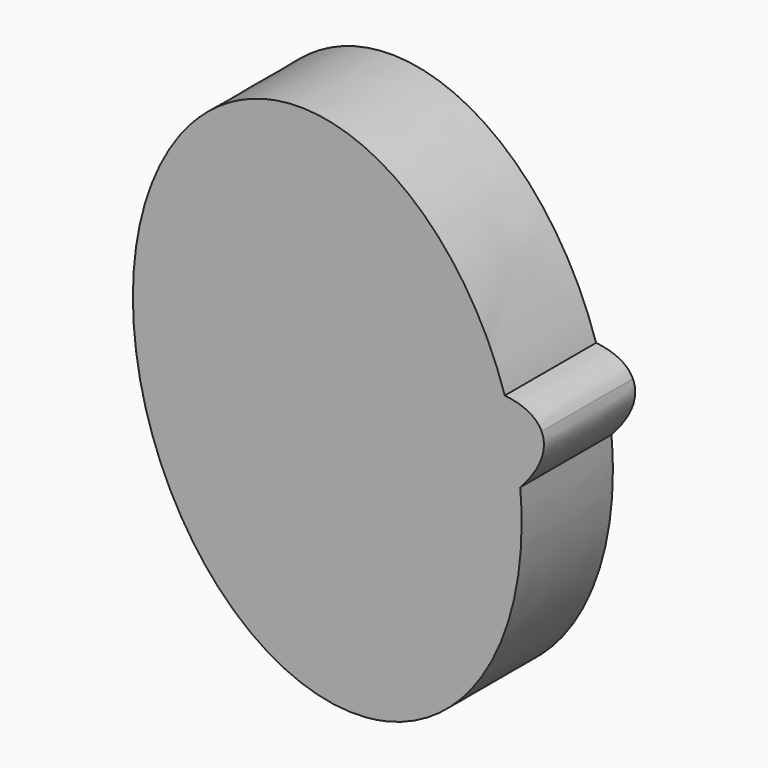
from build123d import *

# Parameters (mm, degrees)
F1_DEPTH = 25.4


with BuildPart() as f1:
    # F0 (on Front) → F1 (new body)
    with BuildSketch(Plane.XZ):
        with BuildLine():
            add(Edge.make_bspline(
                [(0.027917, 55.230635), (-39.398806, 178.953456), (-78.99265, 70.162255), (-118.586493, -38.628945), (-26.332714, -17.199934)],
                knots=[1.680942, 1.680942, 1.680942, 3.982064, 3.982064, 6.283185, 6.283185, 6.283185], degree=2, weights=[1, 0.407975, 1, 0.407975, 1]))
            add(Edge.make_bspline(
                [(-26.332714, -17.199934), (7.813834, -9.268261), (3.455464, 38.338369)],
                knots=[0, 0, 0, 1.38354, 1.38354, 1.38354], degree=2, weights=[1, 0.770118, 1]))
            add(Edge.make_bspline(
                [(0.027917, 55.230635), (-61.01152, 61.756019), (-53.293263, 23.717495), (-45.575005, -14.321029), (3.455464, 38.338369)],
                knots=[0.584651, 0.584651, 0.584651, 3.046858, 3.046858, 5.509064, 5.509064, 5.509064], degree=2, weights=[1, 0.333198, 1, 0.333198, 1]))
        make_face()
        with BuildLine():
            add(Edge.make_bspline(
                [(3.455464, 38.338369), (2.667221, 46.948379), (0.027917, 55.230635)],
                knots=[1.38354, 1.38354, 1.38354, 1.680942, 1.680942, 1.680942], degree=2, weights=[1, 0.988964, 1]))
            add(Edge.make_bspline(
                [(3.455464, 38.338369), (10.518333, 45.923986), (8.217961, 50.878637)],
                knots=[5.509064, 5.509064, 5.509064, 6.283185, 6.283185, 6.283185], degree=2, weights=[1, 0.926023, 1]))
            add(Edge.make_bspline(
                [(8.217961, 50.878637), (6.5196, 54.536645), (0.027917, 55.230635)],
                knots=[0, 0, 0, 0.584651, 0.584651, 0.584651], degree=2, weights=[1, 0.957576, 1]))
        make_face()
        with BuildLine():
            add(Edge.make_bspline(
                [(0.027917, 55.230635), (-61.01152, 61.756019), (-53.293263, 23.717495), (-45.575005, -14.321029), (3.455464, 38.338369)],
                knots=[0.584651, 0.584651, 0.584651, 3.046858, 3.046858, 5.509064, 5.509064, 5.509064], degree=2, weights=[1, 0.333198, 1, 0.333198, 1]))
            add(Edge.make_bspline(
                [(3.455464, 38.338369), (2.667221, 46.948379), (0.027917, 55.230635)],
                knots=[1.38354, 1.38354, 1.38354, 1.680942, 1.680942, 1.680942], degree=2, weights=[1, 0.988964, 1]))
        make_face()
    extrude(amount=F1_DEPTH)


solid = f1.part
